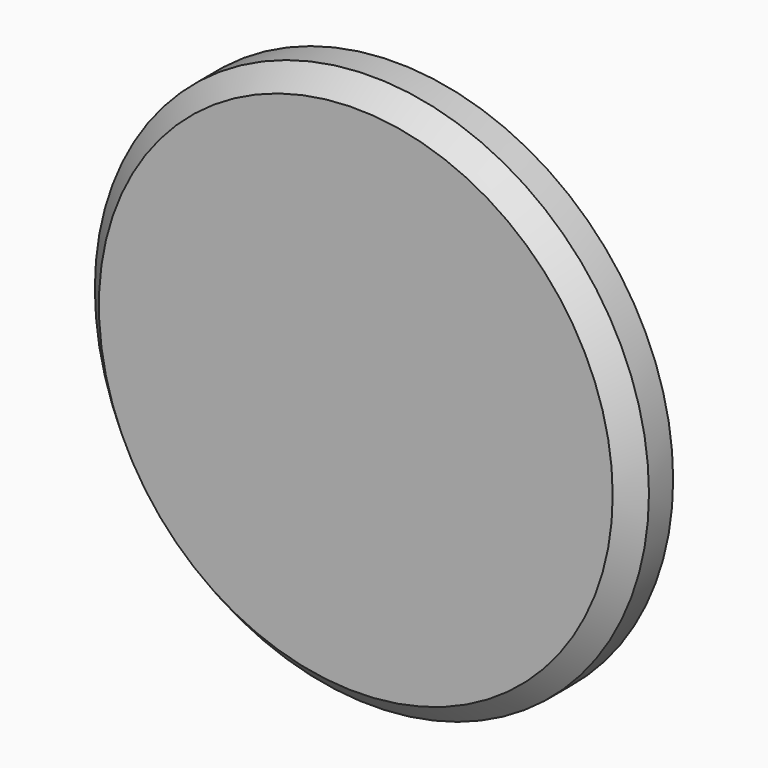
from build123d import *

# Parameters (mm, degrees)
F0_R     = 34.925
F1_DEPTH = 6.35
F2_SIZE  = 2.54
F3_R     = 12.7
F3_R_2   = 7.14375
F4_DEPTH = 19.05


with BuildPart() as f1:
    # F0 (on Front) → F1 (new body)
    with BuildSketch(Plane.XZ):
        Circle(F0_R)
    extrude(amount=F1_DEPTH)

    # F2
    f2_edges = [f1.edges().sort_by_distance(p)[0] for p in [
        (-34.925, -6.35, 0),
    ]]
    chamfer(f2_edges, length=F2_SIZE)

    # F3 (on face) → F4 (join)
    with BuildSketch(Plane(origin=(0, 0, 0), x_dir=(-1, 0, 0), z_dir=(0, 1, 0))):
        Circle(F3_R)
        Circle(F3_R_2, mode=Mode.SUBTRACT)
    extrude(amount=F4_DEPTH)


solid = f1.part
